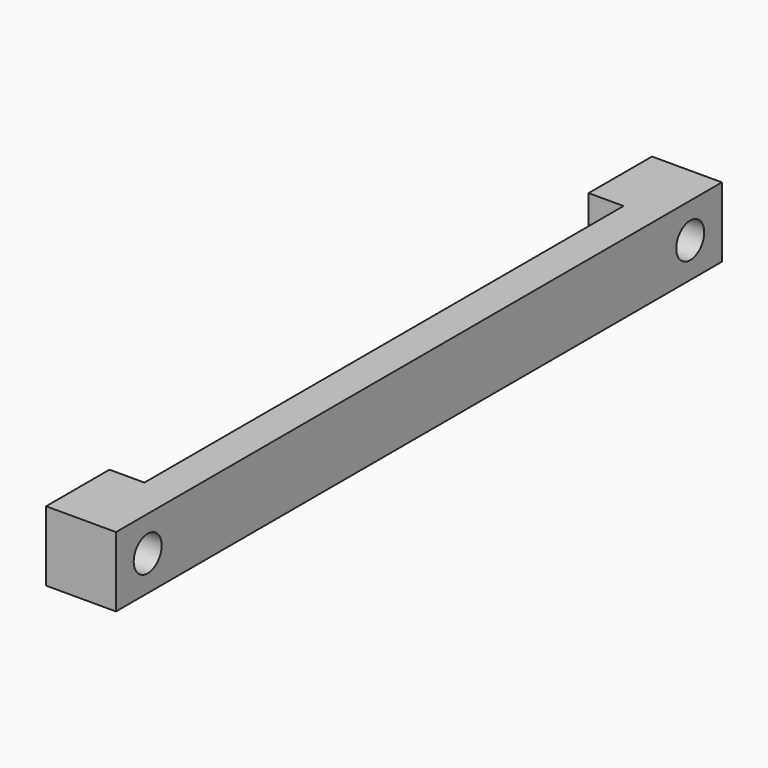
from build123d import *

# Parameters (mm, degrees)
CYLINDER001_R     = 1.5
CYLINDER001_DEPTH = 14
CYLINDER_R        = 1.5
CYLINDER_DEPTH    = 14
BOX003_W          = 3
BOX003_H          = 6.8
BOX003_DEPTH      = 6
BOX002_W          = 3
BOX002_H          = 6.8
BOX002_DEPTH      = 6
BOX001_W          = 3
BOX001_H          = 65
BOX001_DEPTH      = 6


with BuildPart() as cylinder001:
    # Cylinder001 → Cylinder001 (new body)
    with BuildSketch(Plane(origin=(-13, 30.6, 0), x_dir=(0, 0, -1), z_dir=(1, 0, 0))):
        Circle(CYLINDER001_R)
    extrude(amount=CYLINDER001_DEPTH)


with BuildPart() as cylinder:
    # Cylinder → Cylinder (new body)
    with BuildSketch(Plane(origin=(-13, -27.6, 0), x_dir=(0, 0, -1), z_dir=(1, 0, 0))):
        Circle(CYLINDER_R)
    extrude(amount=CYLINDER_DEPTH)


with BuildPart() as cube003:
    # Box003 → Box003 (new body)
    with BuildSketch(Plane(origin=(-6, -31, -3), x_dir=(1, 0, 0), z_dir=(0, 0, 1))):
        with Locations((1.5, 3.4)):
            Rectangle(BOX003_W, BOX003_H)
    extrude(amount=BOX003_DEPTH)


with BuildPart() as cube002:
    # Box002 → Box002 (new body)
    with BuildSketch(Plane(origin=(-6, 27.2, -3), x_dir=(1, 0, 0), z_dir=(0, 0, 1))):
        with Locations((1.5, 3.4)):
            Rectangle(BOX002_W, BOX002_H)
    extrude(amount=BOX002_DEPTH)


with BuildPart() as cut002:
    # Box001 → Box001 (new body)
    with BuildSketch(Plane(origin=(-3, -31, -3), x_dir=(1, 0, 0), z_dir=(0, 0, 1))):
        with Locations((1.5, 32.5)):
            Rectangle(BOX001_W, BOX001_H)
    extrude(amount=BOX001_DEPTH)

    # Fusion: union Cube003, Cube002
    add(cube003.part)
    add(cube002.part)

    # Cut001: cut Cylinder
    add(cylinder.part, mode=Mode.SUBTRACT)

    # Cut002: cut Cylinder001
    add(cylinder001.part, mode=Mode.SUBTRACT)


solid = cut002.part
